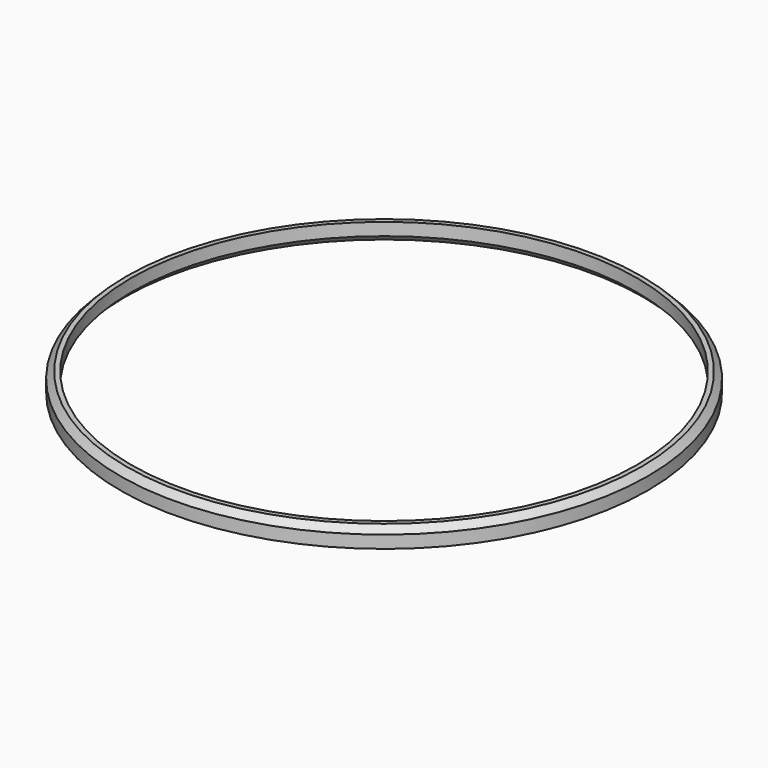
from build123d import *

# Parameters (mm, degrees)
F0_R     = 42
F2_DEPTH = 3
F1_R     = 40.25
F3_DEPTH = 16
F4_SIZE  = 1
F5_W     = 7
F5_H     = 3
F6_DEPTH = 50


with BuildPart() as f2:
    # F0 (on Top) → F2 (new body)
    with BuildSketch(Plane.XY):
        Circle(F0_R)
    extrude(amount=F2_DEPTH)

    # F1 (on Top) → F3 (cut)
    with BuildSketch(Plane.XY):
        Circle(F1_R)
    extrude(amount=F3_DEPTH, mode=Mode.SUBTRACT)

    # F4
    f4_edges = [f2.edges().sort_by_distance(p)[0] for p in [
        (-40.25, 0, 0),
        (-42, 0, 3),
    ]]
    chamfer(f4_edges, length=F4_SIZE)

    # F5 (on Front) → F6 (cut)
    with BuildSketch(Plane.XZ):
        with Locations((-3.5, 13.5)):
            Rectangle(F5_W, F5_H)
    extrude(amount=-F6_DEPTH, mode=Mode.SUBTRACT)


solid = f2.part
